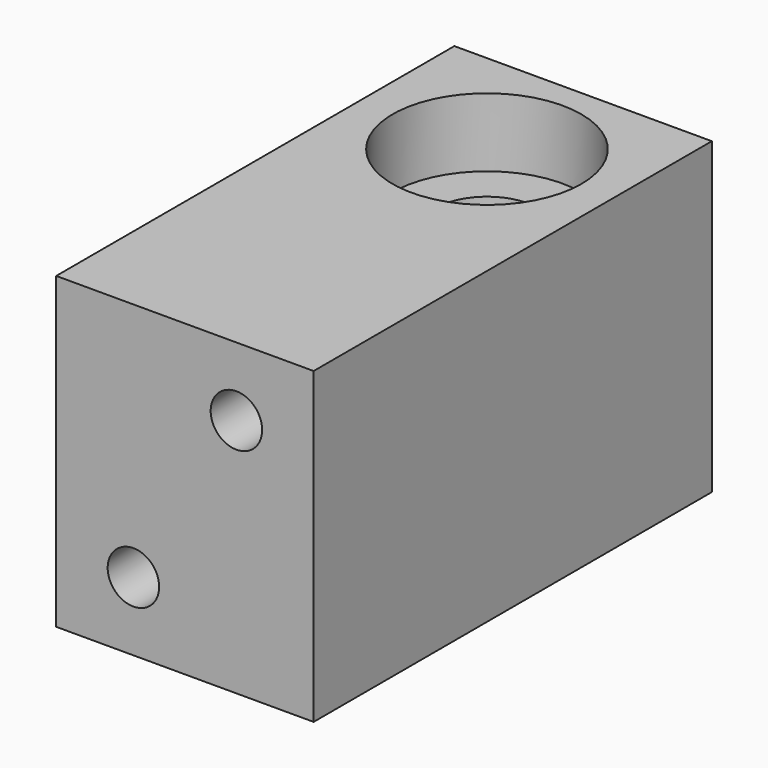
from build123d import *

# Parameters (mm, degrees)
CYLINDER095_R      = 1.5
CYLINDER095_DEPTH  = 21
CYLINDER094_R      = 1.5
CYLINDER094_DEPTH  = 21
CYLINDER085_R      = 1.5
CYLINDER085_DEPTH  = 12
CYLINDER088_R      = 3
CYLINDER088_DEPTH  = 1
CYLINDER089_R      = 3
CYLINDER089_DEPTH  = 1
CYLINDER087_R      = 5.5
CYLINDER087_DEPTH  = 4
CYLINDER086_R      = 5.5
CYLINDER086_DEPTH  = 4
BOX406008013_W     = 15
BOX406008013_H     = 29
BOX406008013_DEPTH = 18
CHAMFER_SIZE       = 0.5
CHAMFER001_SIZE    = 0.5


with BuildPart() as cylinder095:
    # Cylinder095 → Cylinder095 (new body)
    with BuildSketch(Plane(origin=(3, -13, -4), x_dir=(1, 0, 0), z_dir=(0, -1, 0))):
        Circle(CYLINDER095_R)
    extrude(amount=CYLINDER095_DEPTH)


with BuildPart() as fusion103077013004017014:
    # Cylinder094 → Cylinder094 (new body)
    with BuildSketch(Plane(origin=(-3, -13, -14), x_dir=(1, 0, 0), z_dir=(0, -1, 0))):
        Circle(CYLINDER094_R)
    extrude(amount=CYLINDER094_DEPTH)

    # Fusion103077013004017014: union Cylinder095
    add(cylinder095.part)


with BuildPart() as cylinder081:
    # Cylinder085 → Cylinder085 (new body)
    with BuildSketch(Plane.XY.offset(-14)):
        Circle(CYLINDER085_R)
    extrude(amount=CYLINDER085_DEPTH)


with BuildPart() as cylinder082:
    # Cylinder088 → Cylinder088 (new body)
    with BuildSketch(Plane.XY.offset(-5)):
        Circle(CYLINDER088_R)
    extrude(amount=CYLINDER088_DEPTH)


with BuildPart() as fusion103077013004017009:
    # Cylinder089 → Cylinder089 (new body)
    with BuildSketch(Plane.XY.offset(-14)):
        Circle(CYLINDER089_R)
    extrude(amount=CYLINDER089_DEPTH)

    # Fusion103077013004017009: union Cylinder082
    add(cylinder082.part)


with BuildPart() as f_623_bearing003:
    # Cylinder087 → Cylinder087 (new body)
    with BuildSketch(Plane.XY.offset(-18)):
        Circle(CYLINDER087_R)
    extrude(amount=CYLINDER087_DEPTH)


with BuildPart() as f_623_bearing_holes:
    # Cylinder086 → Cylinder086 (new body)
    with BuildSketch(Plane.XY.offset(-4)):
        Circle(CYLINDER086_R)
    extrude(amount=CYLINDER086_DEPTH)

    # Fusion103077013004017008: union 623 Bearing003
    add(f_623_bearing003.part)


with BuildPart() as bearing_mount_end:
    # Box406008013 → Box406008013 (new body)
    with BuildSketch(Plane(origin=(-7.5, -22, -18), x_dir=(1, 0, 0), z_dir=(0, 0, 1))):
        with Locations((7.5, 14.5)):
            Rectangle(BOX406008013_W, BOX406008013_H)
    extrude(amount=BOX406008013_DEPTH)

    # Cut070: cut 623 Bearing Holes
    add(f_623_bearing_holes.part, mode=Mode.SUBTRACT)

    # Cut071: cut Fusion103077013004017009
    add(fusion103077013004017009.part, mode=Mode.SUBTRACT)

    # Cut072: cut Cylinder081
    add(cylinder081.part, mode=Mode.SUBTRACT)

    # Chamfer
    chamfer_edges = [bearing_mount_end.edges().sort_by_distance(p)[0] for p in [
        (-3, 0, -5),
    ]]
    chamfer(chamfer_edges, length=CHAMFER_SIZE)

    # Chamfer001
    chamfer001_edges = [bearing_mount_end.edges().sort_by_distance(p)[0] for p in [
        (-3, 0, -13),
    ]]
    chamfer(chamfer001_edges, length=CHAMFER001_SIZE)

    # Cut078: cut Fusion103077013004017014
    add(fusion103077013004017014.part, mode=Mode.SUBTRACT)


solid = bearing_mount_end.part
